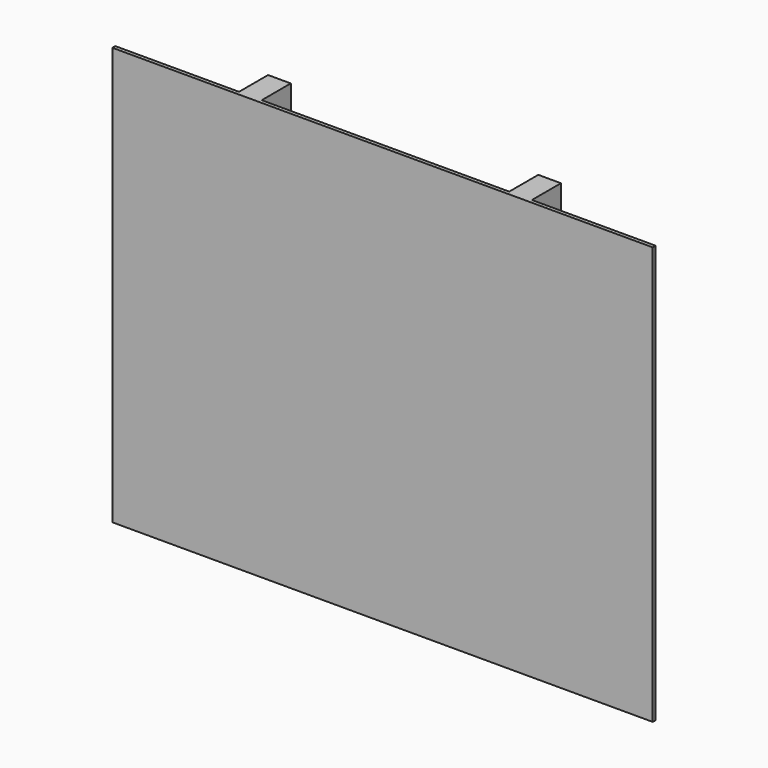
from build123d import *

# Parameters (mm, degrees)
F0_W     = 1190
F0_H     = 920
F1_DEPTH = 8
F2_W     = 50
F2_H     = 920
F3_DEPTH = 80


with BuildPart() as f1:
    # F0 (on Front) → F1 (new body)
    with BuildSketch(Plane.XZ):
        with Locations((595, 460)):
            Rectangle(F0_W, F0_H)
    extrude(amount=F1_DEPTH)

    # F2 (on face) → F3 (join)
    with BuildSketch(Plane(origin=(0, 0, 0), x_dir=(-1, 0, 0), z_dir=(0, 1, 0))):
        with Locations((-892.5, 460)):
            Rectangle(F2_W, F2_H)
        with Locations((-297.5, 460)):
            Rectangle(F2_W, F2_H)
    extrude(amount=F3_DEPTH)


solid = f1.part
